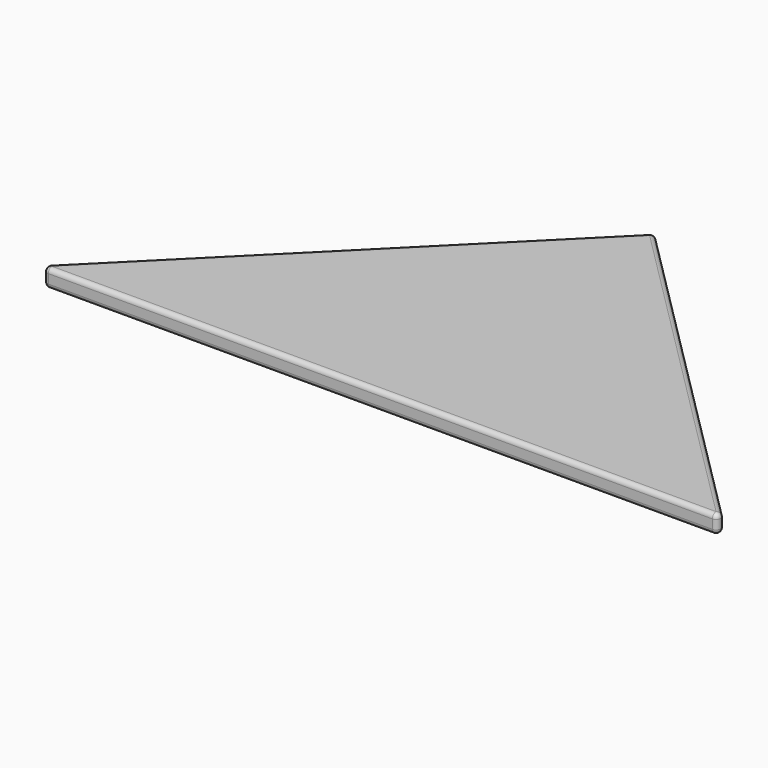
from build123d import *

# Parameters (mm, degrees)
PAD_DEPTH = 4
FILLET_R  = 1


with BuildPart() as part:
    # Sketch → Pad (new body)
    with BuildSketch(Plane.XY):
        Polygon((0, 0), (150, 0), (75, 75), align=None)
    extrude(amount=PAD_DEPTH)

    # Fillet
    fillet_edges = [part.edges().sort_by_distance(p)[0] for p in [
        (0, 0, 2),
        (150, 0, 2),
        (75, 0, 0),
        (75, 0, 4),
        (75, 75, 2),
        (112.5, 37.5, 0),
        (112.5, 37.5, 4),
        (37.5, 37.5, 0),
        (37.5, 37.5, 4),
    ]]
    fillet(fillet_edges, radius=FILLET_R)


solid = part.part
